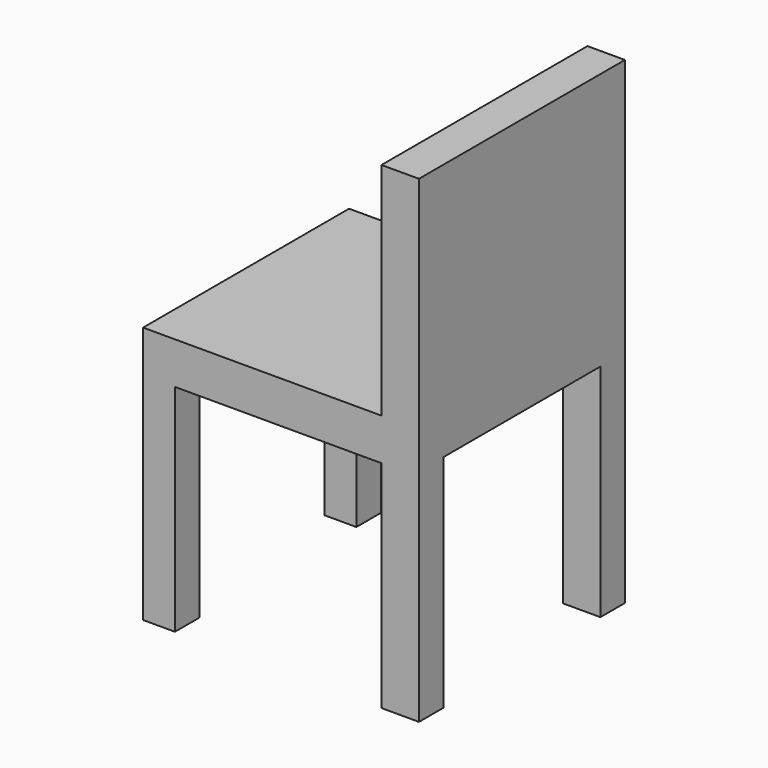
from build123d import *

# Parameters (mm, degrees)
F1_DEPTH = 420
F2_W     = 320
F2_H     = 360
F3_DEPTH = 450.001


with BuildPart() as f1:
    # F0 (on Front) → F1 (new body)
    with BuildSketch(Plane.XZ):
        Polygon((0, 420), (0, 0), (51.913477, 0), (51.913477, 351.713803), (388.899834, 351.713803), (388.899834, 0), (450, 0), (450, 780), (388.899834, 780), (388.899834, 420), align=None)
    extrude(amount=F1_DEPTH)

    # F2 (on face) → F3 (cut, through all)
    with BuildSketch(Plane(origin=(0, 0, 0), x_dir=(0, -1, 0), z_dir=(-1, 0, 0))):
        with Locations((210, 180)):
            Rectangle(F2_W, F2_H)
    extrude(amount=-F3_DEPTH, mode=Mode.SUBTRACT)


solid = f1.part
